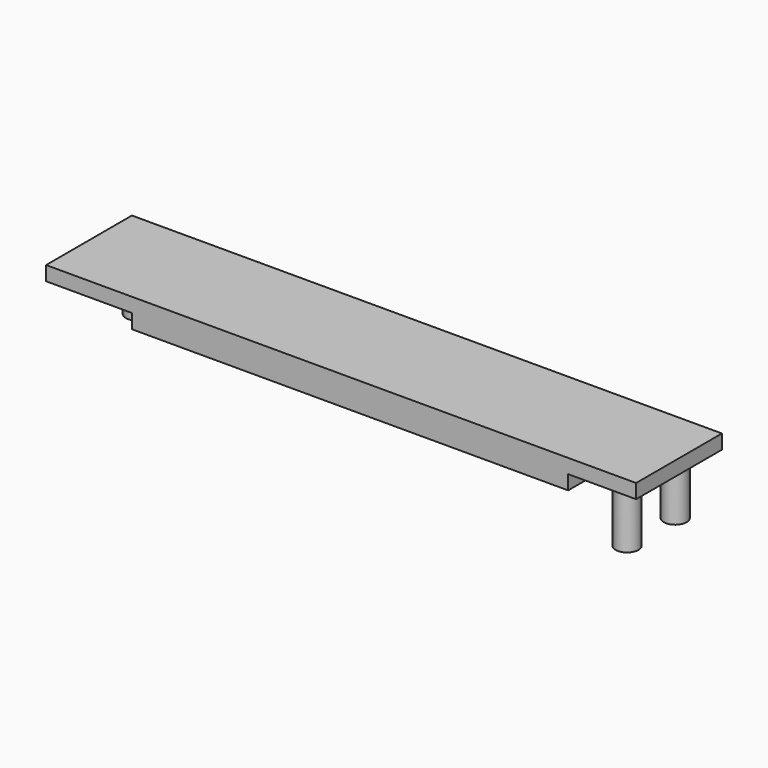
from build123d import *

# Parameters (mm, degrees)
CYLINDER_R        = 1.6
CYLINDER_DEPTH    = 10
BOX001_W          = 61
BOX001_H          = 15
BOX001_DEPTH      = 2
BOX_W             = 82.5
BOX_H             = 15
BOX_DEPTH         = 2
CYLINDER003_R     = 1.6
CYLINDER003_DEPTH = 10
CYLINDER002_R     = 1.6
CYLINDER002_DEPTH = 10


with BuildPart() as taladro1:
    # Cylinder → Cylinder (new body)
    with BuildSketch(Plane(origin=(0, 1.2, -10), x_dir=(1, 0, 0), z_dir=(0, 0, 1))):
        Circle(CYLINDER_R)
    extrude(amount=CYLINDER_DEPTH)


with BuildPart() as perfora_2mm_centro:
    # Box001 → Box001 (new body)
    with BuildSketch(Plane(origin=(12, 0, -2), x_dir=(1, 0, 0), z_dir=(0, 0, 1))):
        with Locations((30.5, 7.5)):
            Rectangle(BOX001_W, BOX001_H)
    extrude(amount=BOX001_DEPTH)


with BuildPart() as fusion001:
    # Box → Box (new body)
    with BuildSketch(Plane.XY):
        with Locations((41.25, 7.5)):
            Rectangle(BOX_W, BOX_H)
    extrude(amount=BOX_DEPTH)

    # Fusion: union perfora_2mm_centro
    add(perfora_2mm_centro.part)


with BuildPart() as fusion001_1:
    # Fusion placement: moved
    add(fusion001.part.moved(Location((-3, -11, -2))))

    # Fusion001: union taladro1
    add(taladro1.part)


with BuildPart() as fusion002:
    # Cylinder003 → Cylinder003 (new body)
    with BuildSketch(Plane(origin=(76, 0.2, -10), x_dir=(1, 0, 0), z_dir=(0, 0, 1))):
        Circle(CYLINDER003_R)
    extrude(amount=CYLINDER003_DEPTH)

    # Fusion002: union Fusion001
    add(fusion001_1.part)


with BuildPart() as fusion007:
    # Cylinder002 → Cylinder002 (new body)
    with BuildSketch(Plane(origin=(76, -8.2, -10), x_dir=(1, 0, 0), z_dir=(0, 0, 1))):
        Circle(CYLINDER002_R)
    extrude(amount=CYLINDER002_DEPTH)

    # Fusion007: union Fusion002
    add(fusion002.part)


solid = fusion007.part
